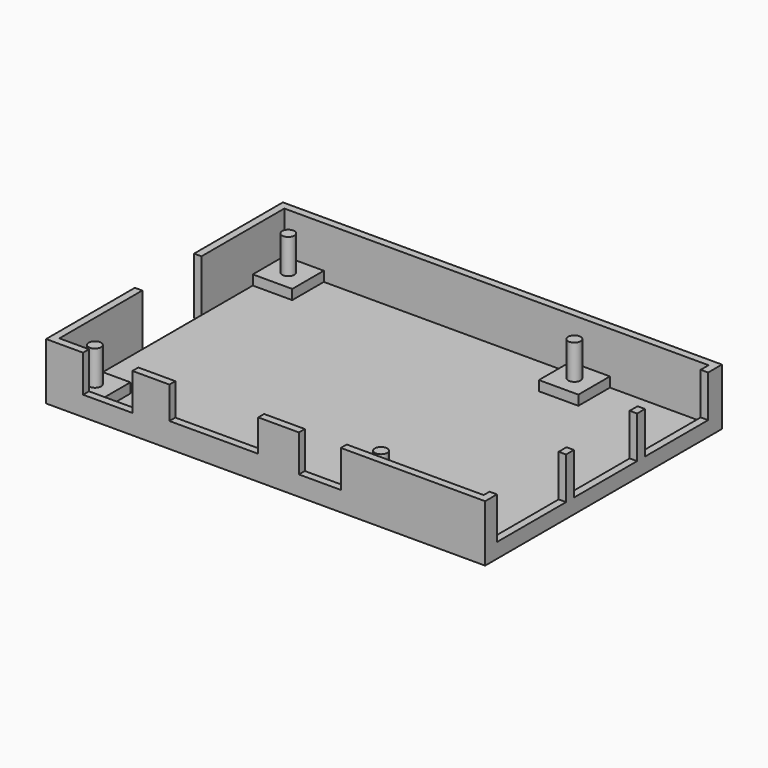
from build123d import *

# Parameters (mm, degrees)
F0_W      = 89
F0_H      = 60
F1_DEPTH  = 1
F2_W      = 89
F2_H      = 60
F2_W_2    = 86
F2_H_2    = 57
F3_DEPTH  = 10.5
F4_W      = 15
F4_H      = 11.5
F5_DEPTH  = 1.5
F6_W      = 10
F6_H      = 7.5
F6_W_2    = 18
F6_H_2    = 6.5
F6_W_3    = 8.5
F7_DEPTH  = 1.5
F8_W      = 17.5
F8_H      = 8.5
F8_W_2    = 16
F9_DEPTH  = 1.5
F10_R     = 1.25
F11_DEPTH = 9
F12_W     = 8
F12_H     = 8
F12_R     = 1.25
F13_DEPTH = 2


with BuildPart() as f1:
    # F0 (on Top) → F1 (new body)
    with BuildSketch(Plane.XY):
        with Locations((44.5, 30)):
            Rectangle(F0_W, F0_H)
    extrude(amount=F1_DEPTH)

    # F2 (on face) → F3 (join)
    with BuildSketch(Plane.XY.offset(1)):
        with Locations((44.5, 30)):
            Rectangle(F2_W, F2_H)
        with Locations((44.5, 30)):
            Rectangle(F2_W_2, F2_H_2, mode=Mode.SUBTRACT)
    extrude(amount=F3_DEPTH)

    # F4 (on face) → F5 (cut, through all)
    with BuildSketch(Plane(origin=(0, 0, 0), x_dir=(0, -1, 0), z_dir=(-1, 0, 0))):
        with Locations((-30, 5.75)):
            Rectangle(F4_W, F4_H)
    extrude(amount=-F5_DEPTH, mode=Mode.SUBTRACT)

    # F6 (on face) → F7 (cut, through all)
    with BuildSketch(Plane.XZ):
        with Locations((12.5, 7.75)):
            Rectangle(F6_W, F6_H)
        with Locations((34, 8.25)):
            Rectangle(F6_W_2, F6_H_2)
        with Locations((55.5, 7.75)):
            Rectangle(F6_W_3, F6_H)
    extrude(amount=-F7_DEPTH, mode=Mode.SUBTRACT)

    # F8 (on face) → F9 (cut, through all)
    with BuildSketch(Plane.YZ.offset(89)):
        with Locations((11.75, 7.25)):
            Rectangle(F8_W, F8_H)
        with Locations((30.5, 7.25)):
            Rectangle(F8_W_2, F8_H)
        with Locations((48.5, 7.25)):
            Rectangle(F8_W_2, F8_H)
    extrude(amount=-F9_DEPTH, mode=Mode.SUBTRACT)

    # F10 (on face) → F11 (join)
    with BuildSketch(Plane.XY.offset(1)):
        with Locations((5.5, 54.5)):
            Circle(F10_R)
        with Locations((63.5, 54.5)):
            Circle(F10_R)
        with Locations((5.5, 5.5)):
            Circle(F10_R)
        with Locations((63.5, 5.5)):
            Circle(F10_R)
    extrude(amount=F11_DEPTH)

    # F12 (on face) → F13 (join)
    with BuildSketch(Plane.XY.offset(1)):
        with Locations((5.5, 54.5)):
            Rectangle(F12_W, F12_H)
        with Locations((5.5, 54.5)):
            Circle(F12_R, mode=Mode.SUBTRACT)
        with Locations((63.5, 54.5)):
            Rectangle(F12_W, F12_H)
        with Locations((63.5, 54.5)):
            Circle(F12_R, mode=Mode.SUBTRACT)
        with Locations((63.5, 5.5)):
            Rectangle(F12_W, F12_H)
        with Locations((63.5, 5.5)):
            Circle(F12_R, mode=Mode.SUBTRACT)
        with Locations((5.5, 5.5)):
            Rectangle(F12_W, F12_H)
        with Locations((5.5, 5.5)):
            Circle(F12_R, mode=Mode.SUBTRACT)
    extrude(amount=F13_DEPTH)


solid = f1.part
